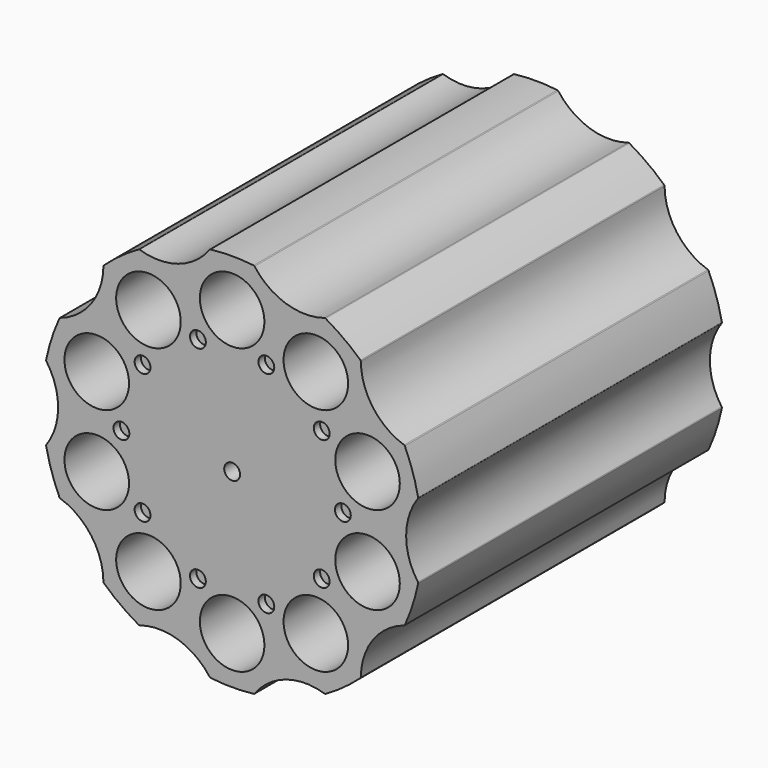
from build123d import *

# Parameters (mm, degrees)
F0_R     = 38.1
F0_R_2   = 6.477
F0_R_3   = 1.5875
F1_DEPTH = 76.2
F2_R     = 1.5875
F3_DEPTH = 1.5875
F4_R     = 12.7
F5_DEPTH = 76.201
F6_R     = 0.254


with BuildPart() as f1:
    # F0 (on Front) → F1 (new body)
    with BuildSketch(Plane.XZ):
        Circle(F0_R)
        with Locations((-16.7959635843, -23.1176606143)):
            Circle(F0_R_2, mode=Mode.SUBTRACT)
        with Locations((-27.1764399531, -8.8301606143)):
            Circle(F0_R_2, mode=Mode.SUBTRACT)
        with Locations((0, -28.575)):
            Circle(F0_R_2, mode=Mode.SUBTRACT)
        with Locations((16.7959635843, -23.1176606143)):
            Circle(F0_R_2, mode=Mode.SUBTRACT)
        with Locations((27.1764399531, -8.8301606143)):
            Circle(F0_R_2, mode=Mode.SUBTRACT)
        with Locations((-27.1764399531, 8.8301606143)):
            Circle(F0_R_2, mode=Mode.SUBTRACT)
        with Locations((-16.7959635843, 23.1176606143)):
            Circle(F0_R_2, mode=Mode.SUBTRACT)
        Circle(F0_R_3, mode=Mode.SUBTRACT)
        with Locations((27.1764399531, 8.8301606143)):
            Circle(F0_R_2, mode=Mode.SUBTRACT)
        with Locations((16.7959635843, 23.1176606143)):
            Circle(F0_R_2, mode=Mode.SUBTRACT)
        with Locations((0, 28.575)):
            Circle(F0_R_2, mode=Mode.SUBTRACT)
    extrude(amount=F1_DEPTH)

    # F2 (on face) → F3 (cut)
    with BuildSketch(Plane.XZ.offset(76.2)):
        with Locations((6.8679027, 21.1372310747)):
            Circle(F2_R)
        with Locations((-6.8679027, 21.1372310747)):
            Circle(F2_R)
        with Locations((-17.9804027, 13.0635272322)):
            Circle(F2_R)
        with Locations((-22.225, 0)):
            Circle(F2_R)
        with Locations((-17.9804027, -13.0635272322)):
            Circle(F2_R)
        with Locations((-6.8679027, -21.1372310747)):
            Circle(F2_R)
        with Locations((6.8679027, -21.1372310747)):
            Circle(F2_R)
        with Locations((17.9804027, -13.0635272322)):
            Circle(F2_R)
        with Locations((22.225, 0)):
            Circle(F2_R)
        with Locations((17.9804027, 13.0635272322)):
            Circle(F2_R)
    extrude(amount=-F3_DEPTH, mode=Mode.SUBTRACT)

    # F4 (on face) → F5 (cut, through all)
    with BuildSketch(Plane.XZ.offset(76.2)):
        with Locations((14.7169343571, 45.2940665886)):
            Circle(F4_R)
        with Locations((-14.7169343571, 45.2940665886)):
            Circle(F4_R)
        with Locations((-38.5294343571, 27.9932726404)):
            Circle(F4_R)
        with Locations((-47.625, 0)):
            Circle(F4_R)
        with Locations((-38.5294343571, -27.9932726404)):
            Circle(F4_R)
        with Locations((-14.7169343571, -45.2940665886)):
            Circle(F4_R)
        with Locations((14.7169343571, -45.2940665886)):
            Circle(F4_R)
        with Locations((38.5294343571, -27.9932726404)):
            Circle(F4_R)
        with Locations((47.625, 0)):
            Circle(F4_R)
        with Locations((38.5294343571, 27.9932726404)):
            Circle(F4_R)
    extrude(amount=-F5_DEPTH, mode=Mode.SUBTRACT)

    # F6
    f6_edges = [f1.edges().sort_by_distance(p)[0] for p in [
        (-34.618959, -38.1, 15.910302),
        (-25.829443, -38.1, 28.008032),
        (-37.359167, -38.1, -7.476809),
        (-37.359167, -38.1, 7.476809),
        (-25.829443, -38.1, -28.008032),
        (-34.618959, -38.1, -15.910302),
        (-4.43375, -38.1, -37.84114),
        (-18.655485, -38.1, -33.220218),
        (18.655485, -38.1, -33.220218),
        (4.43375, -38.1, -37.84114),
        (34.618959, -38.1, -15.910302),
        (25.829443, -38.1, -28.008032),
        (37.359167, -38.1, 7.476809),
        (37.359167, -38.1, -7.476809),
        (34.618959, -38.1, 15.910302),
        (25.829443, -38.1, 28.008032),
        (4.43375, -38.1, 37.84114),
        (18.655485, -38.1, 33.220218),
        (-18.655485, -38.1, 33.220218),
        (-4.43375, -38.1, 37.84114),
    ]]
    fillet(f6_edges, radius=F6_R)


solid = f1.part
